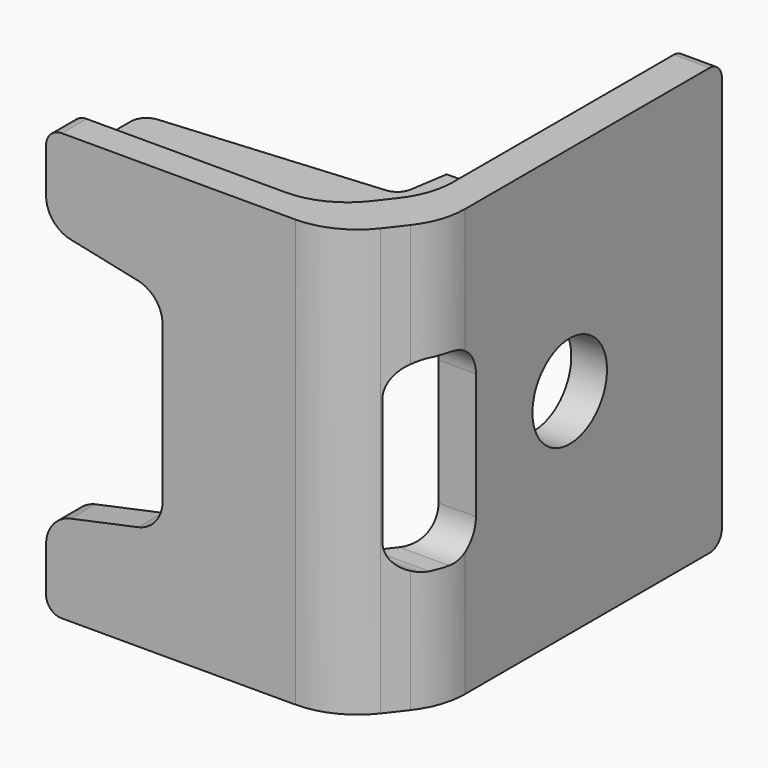
from build123d import *

# Parameters (mm, degrees)
F1_DEPTH  = 27.5
F2_W      = 5.1
F2_H      = 12.1
F2_R      = 3
F3_DEPTH  = 12.5
F4_W      = 7.5
F4_H      = 2
F5_DEPTH  = 17.5
F7_DEPTH  = 26.901
F8_R      = 1
F9_R      = 2
F11_DEPTH = 26.901
F12_R     = 2


with BuildPart() as f1:
    # F0 (on Top) → F1 (new body)
    with BuildSketch(Plane.XY):
        with BuildLine():
            Line((0, 2), (0, 0))
            Line((0, 0), (16.0545809717, 0))
            ThreePointArc((16.0545809717, 0), (18.2513382025, 0.5084236989), (20.0013420586, 1.9302969324))
            Line((20.0013420586, 1.9302969324), (20.9467610869, 3.1458356831))
            ThreePointArc((20.9467610869, 3.1458356831), (21.7293659953, 4.5928566245), (22, 6.2155387507))
            Line((22, 6.2155387507), (22, 26.9))
            Line((22, 26.9), (19.7, 26.9))
            Line((19.7, 26.9), (19.7, 8.1448620011))
            ThreePointArc((19.7, 8.1448620011), (19.4293659953, 6.5221798749), (18.6467610869, 5.0751589336))
            Line((18.6467610869, 5.0751589336), (17.7563128638, 3.9302969324))
            ThreePointArc((17.7563128638, 3.9302969324), (16.0063090077, 2.5084236989), (13.8095517769, 2))
            Line((13.8095517769, 2), (0, 2))
        make_face()
    extrude(amount=F1_DEPTH)

    # F2 (on face) → F3 (cut, symmetric)
    with BuildSketch(Plane(origin=(19.7, 0, 0), x_dir=(0, -1, 0), z_dir=(-1, 0, 0))):
        with Locations((-4.55, 13.75)):
            Rectangle(F2_W, F2_H)
        with Locations((-14.65, 13.75)):
            Circle(F2_R)
    extrude(amount=F3_DEPTH, both=True, mode=Mode.SUBTRACT)

    # F4 (on face) → F5 (join)
    with BuildSketch(Plane(origin=(19.7, 0, 0), x_dir=(0, -1, 0), z_dir=(-1, 0, 0))):
        with Locations((-5.75, 25.9)):
            Rectangle(F4_W, F4_H)
        with Locations((-5.75, 1.6)):
            Rectangle(F4_W, F4_H)
    extrude(amount=F5_DEPTH)

    # F6 (on face) → F7 (cut, through all)
    with BuildSketch(Plane(origin=(0, 0, 0.6), x_dir=(1, 0, 0), z_dir=(0, 0, -1))):
        Polygon((17.7, -6.3), (2.2, -5), (2.2, -9.5), (18.2, -9.5), align=None)
    extrude(amount=-F7_DEPTH, mode=Mode.SUBTRACT)

    # F8
    f8_edges = [f1.edges().sort_by_distance(p)[0] for p in [
        (2.2, 5, 1.6),
        (2.2, 5, 25.9),
        (0, 1, 0),
        (0, 1, 27.5),
        (20.85, 26.9, 0),
        (20.85, 26.9, 27.5),
        (17.7, 6.3, 1.6),
        (17.7, 6.3, 25.9),
    ]]
    fillet(f8_edges, radius=F8_R)

    # F9
    f9_edges = [f1.edges().sort_by_distance(p)[0] for p in [
        (16.932554, 2, 19.8),
        (20.794804, 7.1, 19.8),
        (16.932554, 2, 7.7),
        (20.794804, 7.1, 7.7),
    ]]
    fillet(f9_edges, radius=F9_R)

    # F10 (on face) → F11 (cut, through all)
    with BuildSketch(Plane.XZ):
        Polygon((0, 22), (0, 5.5), (7.5, 7.1), (7.5, 20.4), align=None)
    extrude(amount=-F11_DEPTH, mode=Mode.SUBTRACT)

    # F12
    f12_edges = [f1.edges().sort_by_distance(p)[0] for p in [
        (0, 1, 5.5),
        (0, 1, 22),
        (7.5, 1, 20.4),
        (7.5, 1, 7.1),
    ]]
    fillet(f12_edges, radius=F12_R)


solid = f1.part
